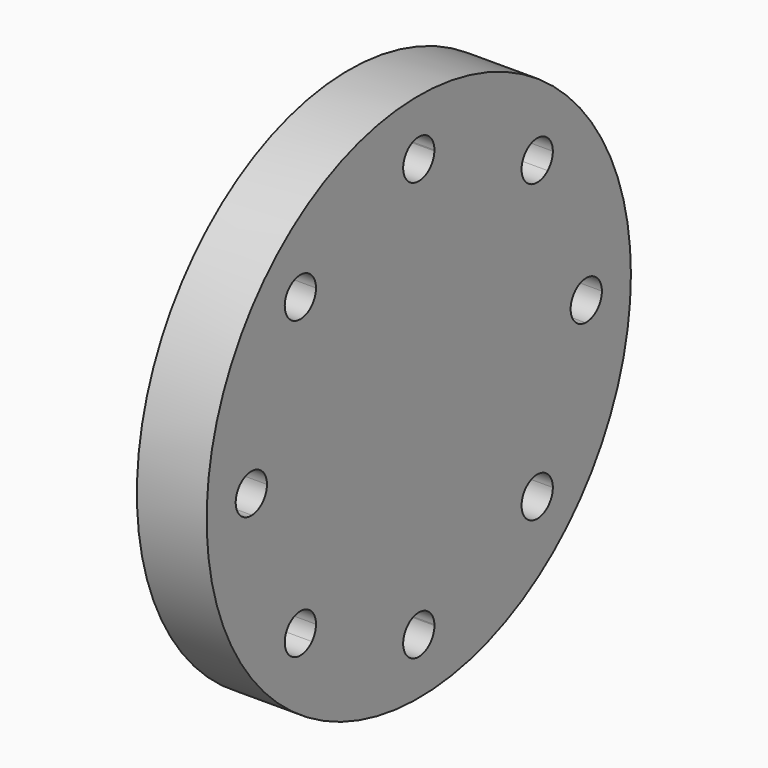
from build123d import *

# Parameters (mm, degrees)
F0_R     = 95
F1_DEPTH = 25


with BuildPart() as f1:
    # F0 (on Right) → F1 (new body)
    with BuildSketch(Plane.YZ):
        Circle(F0_R)
        with BuildLine():
            ThreePointArc((57.7463751795, 47.8576655681), (69.2909649383, 28.7012574274), (74.6733333333, 6.9923736234))
            ThreePointArc((74.6733333333, 6.9923736234), (79.8328735413, 5.0639246966), (82, 0))
            ThreePointArc((82, 0), (79.8328735413, -5.0639246966), (74.6733333333, -6.9923736234))
            ThreePointArc((74.6733333333, -6.9923736234), (69.2909649383, -28.7012574274), (57.7463751795, -47.8576655681))
            ThreePointArc((57.7463751795, -47.8576655681), (59.4358816212, -50.2040128426), (60.033008589, -53.033008589))
            ThreePointArc((60.033008589, -53.033008589), (55.5601214529, -59.5609256054), (47.8576655681, -57.7463751795))
            ThreePointArc((47.8576655681, -57.7463751795), (28.7012574274, -69.2909649383), (6.9923736234, -74.6733333333))
            ThreePointArc((6.9923736234, -74.6733333333), (6.9980931461, -74.8366221613), (7, -75))
            ThreePointArc((7, -75), (-0.1633778387, -81.9980931461), (-6.9923736234, -74.6733333333))
            ThreePointArc((-6.9923736234, -74.6733333333), (-28.7012574274, -69.2909649383), (-47.8576655681, -57.7463751795))
            ThreePointArc((-47.8576655681, -57.7463751795), (-57.9827560573, -57.9827560573), (-57.7463751795, -47.8576655681))
            ThreePointArc((-57.7463751795, -47.8576655681), (-69.2909649383, -28.7012574274), (-74.6733333333, -6.9923736234))
            ThreePointArc((-74.6733333333, -6.9923736234), (-82, 0), (-74.6733333333, 6.9923736234))
            ThreePointArc((-74.6733333333, 6.9923736234), (-69.2909649383, 28.7012574274), (-57.7463751795, 47.8576655681))
            ThreePointArc((-57.7463751795, 47.8576655681), (-57.9827560573, 57.9827560573), (-47.8576655681, 57.7463751795))
            ThreePointArc((-47.8576655681, 57.7463751795), (-28.7012574274, 69.2909649383), (-6.9923736234, 74.6733333333))
            ThreePointArc((-6.9923736234, 74.6733333333), (-0.1633778387, 81.9980931461), (7, 75))
            ThreePointArc((7, 75), (6.9980931461, 74.8366221613), (6.9923736234, 74.6733333333))
            ThreePointArc((6.9923736234, 74.6733333333), (28.7012574274, 69.2909649383), (47.8576655681, 57.7463751795))
            ThreePointArc((47.8576655681, 57.7463751795), (55.5601214529, 59.5609256054), (60.033008589, 53.033008589))
            ThreePointArc((60.033008589, 53.033008589), (59.4358816212, 50.2040128426), (57.7463751795, 47.8576655681))
        make_face(mode=Mode.SUBTRACT)
        with BuildLine():
            ThreePointArc((74.6733333333, -6.9923736234), (68, 0), (74.6733333333, 6.9923736234))
            ThreePointArc((74.6733333333, 6.9923736234), (69.2909649383, 28.7012574274), (57.7463751795, 47.8576655681))
            ThreePointArc((57.7463751795, 47.8576655681), (48.0832611207, 48.0832611207), (47.8576655681, 57.7463751795))
            ThreePointArc((47.8576655681, 57.7463751795), (28.7012574274, 69.2909649383), (6.9923736234, 74.6733333333))
            ThreePointArc((6.9923736234, 74.6733333333), (0, 68), (-6.9923736234, 74.6733333333))
            ThreePointArc((-6.9923736234, 74.6733333333), (-28.7012574274, 69.2909649383), (-47.8576655681, 57.7463751795))
            ThreePointArc((-47.8576655681, 57.7463751795), (-46.5050915726, 55.5601214529), (-46.033008589, 53.033008589))
            ThreePointArc((-46.033008589, 53.033008589), (-50.2040128426, 46.6301355568), (-57.7463751795, 47.8576655681))
            ThreePointArc((-57.7463751795, 47.8576655681), (-69.2909649383, 28.7012574274), (-74.6733333333, 6.9923736234))
            ThreePointArc((-74.6733333333, 6.9923736234), (-69.9360753034, 4.8328735413), (-68, 0))
            ThreePointArc((-68, 0), (-69.9360753034, -4.8328735413), (-74.6733333333, -6.9923736234))
            ThreePointArc((-74.6733333333, -6.9923736234), (-69.2909649383, -28.7012574274), (-57.7463751795, -47.8576655681))
            ThreePointArc((-57.7463751795, -47.8576655681), (-50.2040128426, -46.6301355568), (-46.033008589, -53.033008589))
            ThreePointArc((-46.033008589, -53.033008589), (-46.5050915726, -55.5601214529), (-47.8576655681, -57.7463751795))
            ThreePointArc((-47.8576655681, -57.7463751795), (-28.7012574274, -69.2909649383), (-6.9923736234, -74.6733333333))
            ThreePointArc((-6.9923736234, -74.6733333333), (0, -68), (6.9923736234, -74.6733333333))
            ThreePointArc((6.9923736234, -74.6733333333), (28.7012574274, -69.2909649383), (47.8576655681, -57.7463751795))
            ThreePointArc((47.8576655681, -57.7463751795), (48.0832611207, -48.0832611207), (57.7463751795, -47.8576655681))
            ThreePointArc((57.7463751795, -47.8576655681), (69.2909649383, -28.7012574274), (74.6733333333, -6.9923736234))
        make_face()
    extrude(amount=F1_DEPTH)


solid = f1.part
